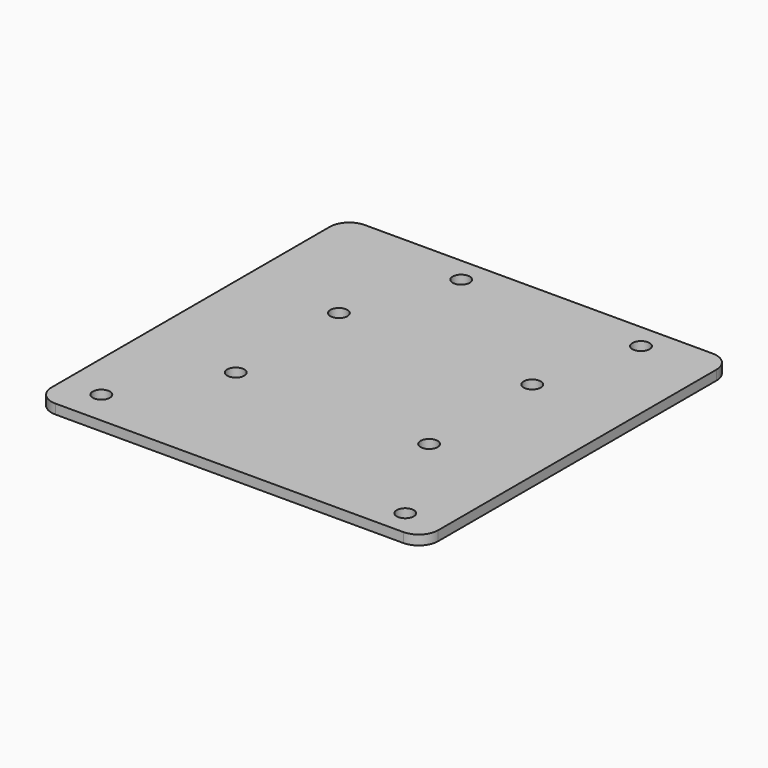
from build123d import *

# Parameters (mm, degrees)
F0_W     = 60
F0_H     = 60
F1_DEPTH = 1.5
F2_R     = 3
F4_D     = 2.65


with BuildPart() as f1:
    # F0 (on Top) → F1 (new body)
    with BuildSketch(Plane.XY):
        Rectangle(F0_W, F0_H)
    extrude(amount=F1_DEPTH)

    # F2
    f2_edges = [f1.edges().sort_by_distance(p)[0] for p in [
        (-30, -30, 0.75),
        (30, -30, 0.75),
        (30, 30, 0.75),
        (-30, 30, 0.75),
    ]]
    fillet(f2_edges, radius=F2_R)

    # F4 (through all)
    with Locations(Plane.XY.offset(1.5)):
        with Locations((-15, 10), (15, 10), (15, -10), (-15, -10), (-8.9, 26.1), (19, 26.1), (24.1, -26), (-24.1, -24.7)):
            Hole(F4_D / 2)


solid = f1.part
